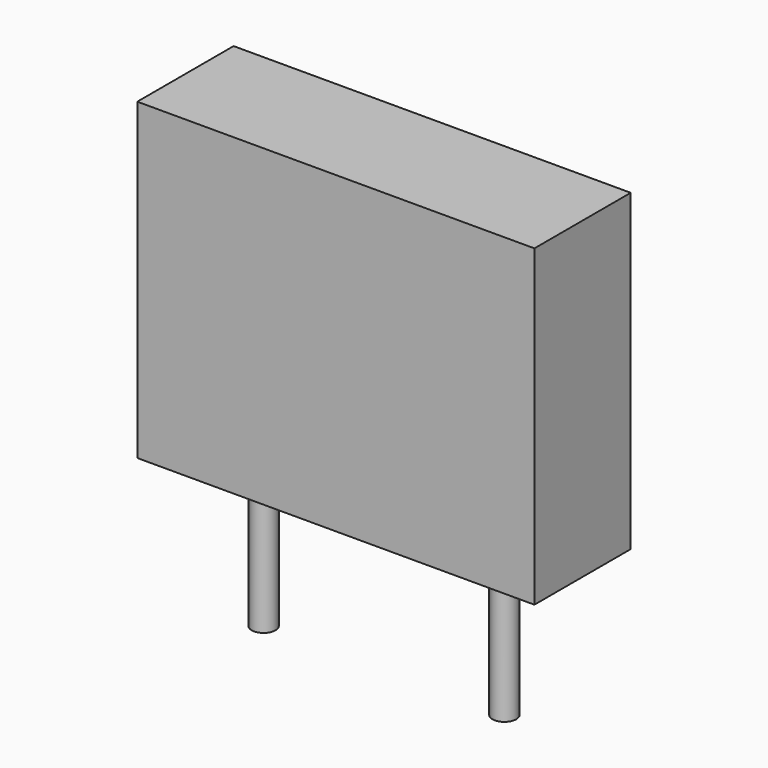
from build123d import *

# Parameters (mm, degrees)
SKETCH_W     = 8.38
SKETCH_H     = 2.54
PAD_DEPTH    = 6.62
SKETCH001_R  = 0.25
PAD001_DEPTH = 3.5


with BuildPart() as pad:
    # Sketch → Pad (new body)
    with BuildSketch(Plane.XY.offset(0.1)):
        with Locations((2.54, 0)):
            Rectangle(SKETCH_W, SKETCH_H)
    extrude(amount=PAD_DEPTH)


with BuildPart() as pad001:
    # Sketch001 → Pad001 (new body)
    with BuildSketch(Plane.XY.offset(0.5)):
        Circle(SKETCH001_R)
        with Locations((5.08, 0)):
            Circle(SKETCH001_R)
    extrude(amount=-PAD001_DEPTH)


solid = Compound([pad.part, pad001.part])
